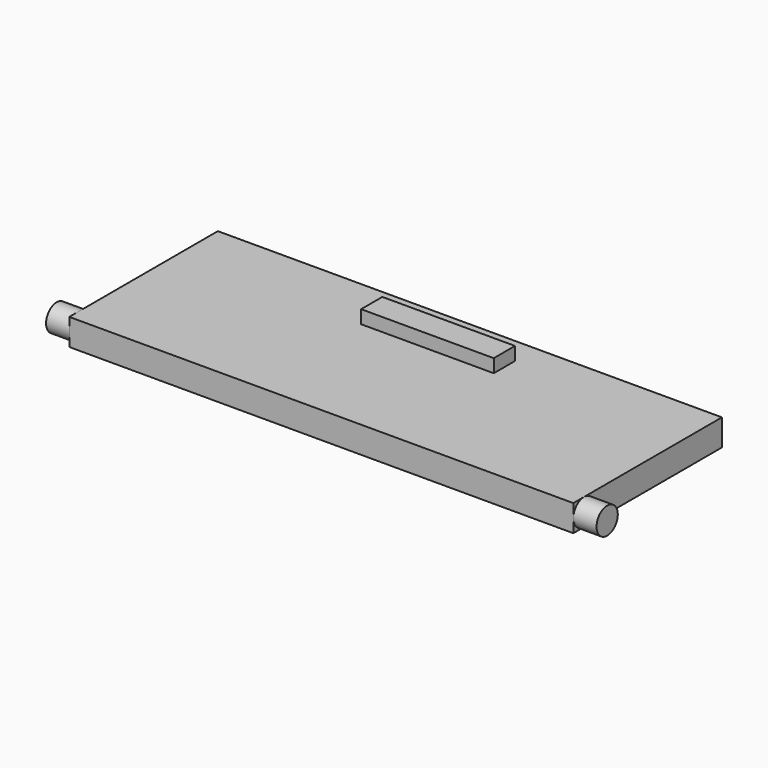
from build123d import *

# Parameters (mm, degrees)
F0_W     = 48.26
F0_H     = 17.78
F1_DEPTH = 2.54
F2_R     = 1.27
F3_DEPTH = 26.3525
F4_W     = 12.7
F4_H     = 2.54
F5_DEPTH = 1.27


with BuildPart() as f1:
    # F0 (on Top) → F1 (new body)
    with BuildSketch(Plane.XY):
        Rectangle(F0_W, F0_H)
    extrude(amount=F1_DEPTH)

    # F2 (on Right) → F3 (join, symmetric)
    with BuildSketch(Plane.YZ):
        with Locations((-7.62, 1.27)):
            Circle(F2_R)
    extrude(amount=F3_DEPTH, both=True)

    # F4 (on face) → F5 (join)
    with BuildSketch(Plane.XY.offset(2.54)):
        with Locations((0, 5.08)):
            Rectangle(F4_W, F4_H)
    extrude(amount=F5_DEPTH)


solid = f1.part
